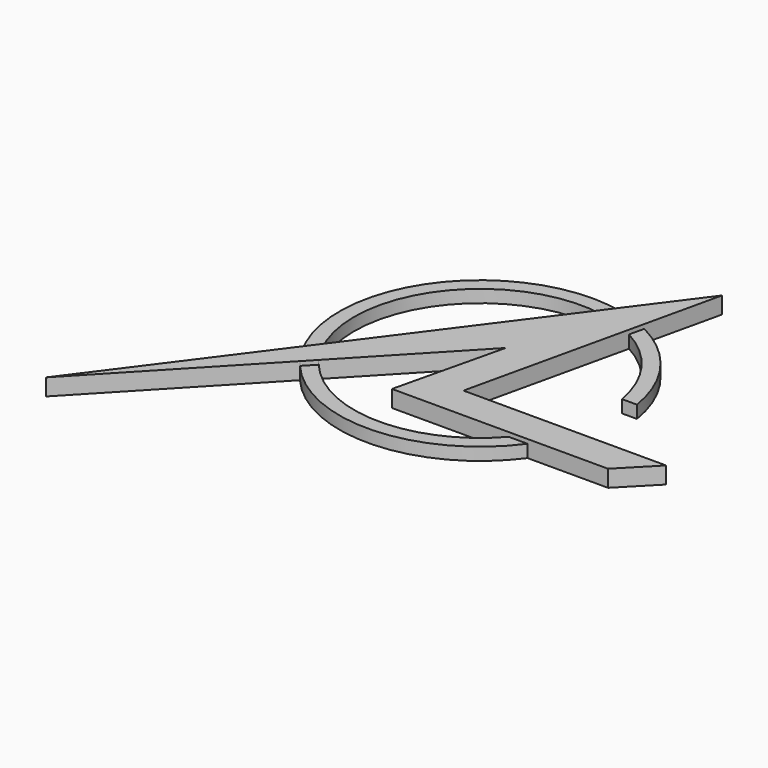
from build123d import *

# Parameters (mm, degrees)
F1_DEPTH = 20
F2_DEPTH = 15


with BuildPart() as f1:
    # F0 (on Top) → F1 (new body)
    with BuildSketch(Plane.XY):
        with BuildLine():
            ThreePointArc((112.8984413426, -98.7620470748), (126.7036712203, -80.2881043449), (137.5137900004, -59.9162545535))
            Line((137.5137900004, -59.9162545535), (27.9992812259, -59.9162545535))
            Line((27.9992812259, -59.9162545535), (71.5036447636, 131.8606415331))
            ThreePointArc((71.5036447636, 131.8606415331), (50.1106474608, 141.3821877432), (27.4964644236, 147.4582803514))
            Line((27.4964644236, 147.4582803514), (-133.2951800323, -68.7924049598))
            ThreePointArc((-133.2951800323, -68.7924049598), (-125.1291247059, -82.7206271153), (-115.5133520813, -95.690467085))
            Line((-115.5133520813, -95.690467085), (5.0392397055, 31.6007288395))
            Line((5.0392397055, 31.6007288395), (-25.9695760717, -98.7620470748))
            Line((-25.9695760717, -98.7620470748), (-24.5049724374, -98.7620470748))
            Line((-24.5049724374, -98.7620470748), (112.8984413426, -98.7620470748))
        make_face()
        with BuildLine():
            ThreePointArc((27.4964644236, 147.4582803514), (50.1106474608, 141.3821877432), (71.5036447636, 131.8606415331))
            Line((71.5036447636, 131.8606415331), (75.5085008774, 149.5149366962))
            ThreePointArc((75.5085008774, 149.5149366962), (57.6337842635, 157.2723653776), (38.9791138327, 162.9014385597))
            Line((38.9791138326, 162.9014385597), (27.4964644236, 147.4582803514))
        make_face()
        with BuildLine():
            ThreePointArc((38.9791138327, 162.9014385597), (57.6337842635, 157.2723653776), (75.5085008774, 149.5149366962))
            Line((75.5085008774, 149.5149366962), (95.9162745136, 239.4769351198))
            Line((95.9162745136, 239.4769351198), (38.9791138326, 162.9014385597))
        make_face()
        with BuildLine():
            Line((268.9992812259, -59.9162545535), (156.4170465144, -59.9162545535))
            ThreePointArc((156.4170465144, -59.9162545535), (147.139114823, -80.0395582765), (135.2860231421, -98.7620470748))
            Line((135.2860231421, -98.7620470748), (231.0304239283, -98.7620470748))
            Line((231.0304239283, -98.7620470748), (268.9992812259, -59.9162545535))
        make_face()
        with BuildLine():
            Line((156.4170465144, -59.9162545535), (137.5137900004, -59.9162545535))
            ThreePointArc((137.5137900004, -59.9162545535), (126.7036712203, -80.2881043449), (112.8984413426, -98.7620470748))
            Line((112.8984413426, -98.7620470748), (135.2860231421, -98.7620470748))
            ThreePointArc((135.2860231421, -98.7620470748), (147.139114823, -80.0395582765), (156.4170465144, -59.9162545535))
        make_face()
        with BuildLine():
            Line((-291.3280838626, -281.332825643), (-127.6258016941, -108.4799739212))
            ThreePointArc((-127.6258016941, -108.4799739212), (-136.7402004794, -96.7386560422), (-144.7778294414, -84.235563168))
            Line((-144.7778294414, -84.235563168), (-291.3280838626, -281.332825643))
        make_face()
        with BuildLine():
            Line((-127.6258016941, -108.4799739212), (-115.5133520813, -95.690467085))
            ThreePointArc((-115.5133520813, -95.690467085), (-125.1291247059, -82.7206271153), (-133.2951800323, -68.7924049598))
            Line((-133.2951800323, -68.7924049598), (-144.7778294414, -84.235563168))
            ThreePointArc((-144.7778294414, -84.235563168), (-136.7402004794, -96.7386560422), (-127.6258016941, -108.4799739212))
        make_face()
    extrude(amount=F1_DEPTH)

    # F0 (on Top) → F2 (join)
    with BuildSketch(Plane.XY):
        with BuildLine():
            ThreePointArc((-133.2951800323, -68.7924049598), (-120.3720556463, 89.5017777449), (27.4964644236, 147.4582803514))
            Line((27.4964644236, 147.4582803514), (38.9791138326, 162.9014385597))
            ThreePointArc((38.9791138327, 162.9014385597), (-134.4154621383, 99.9436518151), (-144.7778294414, -84.235563168))
            Line((-144.7778294414, -84.235563168), (-133.2951800323, -68.7924049598))
        make_face()
        with BuildLine():
            ThreePointArc((71.5036447636, 131.8606415331), (121.6665324105, 87.7340007706), (147.6936150084, 26.2029785663))
            Line((147.6936150084, 26.2029785663), (165.4377644743, 26.2029785663))
            ThreePointArc((165.4377644743, 26.2029785663), (135.3337927171, 98.6965782022), (75.5085008774, 149.5149366962))
            Line((75.5085008774, 149.5149366962), (71.5036447636, 131.8606415331))
        make_face()
        with BuildLine():
            Line((135.2860231421, -98.7620470748), (112.8984413426, -98.7620470748))
            ThreePointArc((112.8984413426, -98.7620470748), (-2.0169507806, -149.9864390855), (-115.5133520813, -95.690467085))
            Line((-115.5133520813, -95.690467085), (-127.6258016941, -108.4799739212))
            ThreePointArc((-127.6258016941, -108.4799739212), (6.1870246247, -167.3856945091), (135.2860231421, -98.7620470748))
        make_face()
    extrude(amount=F2_DEPTH)


solid = f1.part
